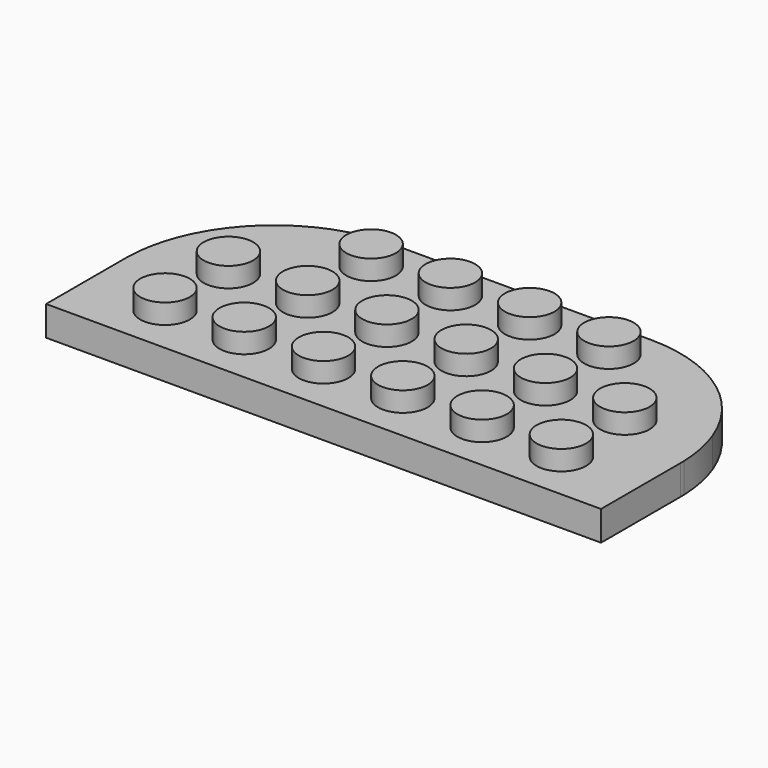
from build123d import *

# Parameters (mm, degrees)
F0_R     = 2.5
F1_DEPTH = 3
F2_DEPTH = 5
F3_R     = 3
F3_R_2   = 2.5
F4_DEPTH = 2


with BuildPart() as f1:
    # F0 (on Top) → F1 (new body)
    with BuildSketch(Plane.XY):
        with BuildLine():
            Line((-28, 0), (0, 0))
            Line((0, 0), (0, 25))
            Line((0, 25), (-13, 25))
            ThreePointArc((-13, 25), (-16.3893239512, 24.6120663547), (-19.6033368631, 23.4683310871))
            ThreePointArc((-19.6033368631, 23.4683310871), (-18.0971524178, 22.6214718865), (-17.5, 21))
            ThreePointArc((-17.5, 21), (-20.3463811518, 18.5241122607), (-22.4040160781, 21.6860806776))
            ThreePointArc((-22.4040160781, 21.6860806776), (-25.1440747457, 18.8046265435), (-27.0307720104, 15.3044732813))
            ThreePointArc((-27.0307720104, 15.3044732813), (-25.9175651302, 14.3832805258), (-25.5, 13))
            ThreePointArc((-25.5, 13), (-26.2292882388, 11.235182769), (-27.991663887, 10.5000138982))
            ThreePointArc((-27.991663887, 10.5000138982), (-27.997915827, 10.2500416911), (-28, 10))
            Line((-28, 10), (-28, 7.5))
            ThreePointArc((-28, 7.5), (-26.232233047, 6.767766953), (-25.5, 5))
            ThreePointArc((-25.5, 5), (-26.232233047, 3.232233047), (-28, 2.5))
            Line((-28, 2.5), (-28, 0))
        make_face()
        with Locations((-20, 5)):
            Circle(F0_R, mode=Mode.SUBTRACT)
        with Locations((-12, 5)):
            Circle(F0_R, mode=Mode.SUBTRACT)
        with Locations((-4, 5)):
            Circle(F0_R, mode=Mode.SUBTRACT)
        with Locations((-20, 13)):
            Circle(F0_R, mode=Mode.SUBTRACT)
        with Locations((-12, 13)):
            Circle(F0_R, mode=Mode.SUBTRACT)
        with Locations((-4, 13)):
            Circle(F0_R, mode=Mode.SUBTRACT)
        with Locations((-12, 21)):
            Circle(F0_R, mode=Mode.SUBTRACT)
        with Locations((-4, 21)):
            Circle(F0_R, mode=Mode.SUBTRACT)
        with BuildLine():
            ThreePointArc((-17.5, 21), (-18.0971524178, 22.6214718865), (-19.6033368631, 23.4683310871))
            ThreePointArc((-19.6033368631, 23.4683310871), (-21.0531323829, 22.654922316), (-22.4040160781, 21.6860806776))
            ThreePointArc((-22.4040160781, 21.6860806776), (-20.3463811518, 18.5241122607), (-17.5, 21))
        make_face()
        with BuildLine():
            Line((0, 25), (0, 0))
            Line((0, 0), (28, 0))
            Line((28, 0), (28, 2.5))
            ThreePointArc((28, 2.5), (25.5, 5), (28, 7.5))
            Line((28, 7.5), (28, 10))
            ThreePointArc((28, 10), (27.997915827, 10.2500416911), (27.991663887, 10.5000138982))
            ThreePointArc((27.991663887, 10.5000138982), (25.5485483108, 12.5097096622), (27.0307720104, 15.3044732813))
            ThreePointArc((27.0307720104, 15.3044732813), (25.1440747457, 18.8046265435), (22.4040160781, 21.6860806776))
            ThreePointArc((22.4040160781, 21.6860806776), (22.4758877393, 21.3463811518), (22.5, 21))
            ThreePointArc((22.5, 21), (18.3785281135, 19.0971524178), (19.6033368631, 23.4683310871))
            ThreePointArc((19.6033368631, 23.4683310871), (16.3893239512, 24.6120663547), (13, 25))
            Line((13, 25), (0, 25))
        make_face()
        with Locations((4, 5)):
            Circle(F0_R, mode=Mode.SUBTRACT)
        with Locations((12, 5)):
            Circle(F0_R, mode=Mode.SUBTRACT)
        with Locations((20, 5)):
            Circle(F0_R, mode=Mode.SUBTRACT)
        with Locations((4, 13)):
            Circle(F0_R, mode=Mode.SUBTRACT)
        with Locations((12, 13)):
            Circle(F0_R, mode=Mode.SUBTRACT)
        with Locations((20, 13)):
            Circle(F0_R, mode=Mode.SUBTRACT)
        with Locations((4, 21)):
            Circle(F0_R, mode=Mode.SUBTRACT)
        with Locations((12, 21)):
            Circle(F0_R, mode=Mode.SUBTRACT)
        with BuildLine():
            ThreePointArc((22.4040160781, 21.6860806776), (21.0531323829, 22.654922316), (19.6033368631, 23.4683310871))
            ThreePointArc((19.6033368631, 23.4683310871), (18.3785281135, 19.0971524178), (22.5, 21))
            ThreePointArc((22.5, 21), (22.4758877393, 21.3463811518), (22.4040160781, 21.6860806776))
        make_face()
        with BuildLine():
            ThreePointArc((-27.0307720104, 15.3044732813), (-27.7087101354, 12.9417420271), (-27.991663887, 10.5000138982))
            ThreePointArc((-27.991663887, 10.5000138982), (-26.2292882388, 11.235182769), (-25.5, 13))
            ThreePointArc((-25.5, 13), (-25.9175651302, 14.3832805258), (-27.0307720104, 15.3044732813))
        make_face()
        with BuildLine():
            Line((-28, 7.5), (-28, 2.5))
            ThreePointArc((-28, 2.5), (-26.232233047, 3.232233047), (-25.5, 5))
            ThreePointArc((-25.5, 5), (-26.232233047, 6.767766953), (-28, 7.5))
        make_face()
        with BuildLine():
            ThreePointArc((28, 7.5), (25.5, 5), (28, 2.5))
            Line((28, 2.5), (28, 7.5))
        make_face()
        with BuildLine():
            ThreePointArc((27.991663887, 10.5000138982), (27.7087101354, 12.9417420271), (27.0307720104, 15.3044732813))
            ThreePointArc((27.0307720104, 15.3044732813), (25.5485483108, 12.5097096622), (27.991663887, 10.5000138982))
        make_face()
    extrude(amount=F1_DEPTH)

    # F0 (on Top) → F2 (join)
    with BuildSketch(Plane.XY):
        with Locations((-20, 13)):
            Circle(F0_R)
        with Locations((-20, 5)):
            Circle(F0_R)
        with Locations((-12, 5)):
            Circle(F0_R)
        with Locations((-12, 13)):
            Circle(F0_R)
        with Locations((-12, 21)):
            Circle(F0_R)
        with Locations((-4, 21)):
            Circle(F0_R)
        with Locations((-4, 13)):
            Circle(F0_R)
        with Locations((-4, 5)):
            Circle(F0_R)
        with Locations((4, 13)):
            Circle(F0_R)
        with Locations((4, 21)):
            Circle(F0_R)
        with Locations((4, 5)):
            Circle(F0_R)
        with Locations((12, 5)):
            Circle(F0_R)
        with Locations((12, 13)):
            Circle(F0_R)
        with Locations((12, 21)):
            Circle(F0_R)
        with Locations((20, 13)):
            Circle(F0_R)
        with Locations((20, 5)):
            Circle(F0_R)
    extrude(amount=F2_DEPTH)

    # F3 (on Top) → F4 (cut)
    with BuildSketch(Plane.XY):
        with BuildLine():
            Line((13, 23.5), (0, 23.5))
            Line((0, 23.5), (-13, 23.5))
            ThreePointArc((-13, 23.5), (-15.5473326534, 23.2574920838), (-18.0031470352, 22.5386809412))
            ThreePointArc((-18.0031470352, 22.5386809412), (-20.2891608484, 21.3630160664), (-22.3108832056, 19.7753492997))
            ThreePointArc((-22.3108832056, 19.7753492997), (-25.4086043388, 15.3175688394), (-26.5, 10))
            Line((-26.5, 10), (-26.5, 1.5))
            Line((-26.5, 1.5), (0, 1.5))
            Line((0, 1.5), (26.5, 1.5))
            Line((26.5, 1.5), (26.5, 7.3416876048))
            ThreePointArc((26.5, 7.3416876048), (21.0000404053, 8.9844298396), (26.4826520886, 10.6841729742))
            ThreePointArc((26.4826520886, 10.6841729742), (25.26982822, 15.6303921225), (22.3108832056, 19.7753492997))
            ThreePointArc((22.3108832056, 19.7753492997), (20.2891608484, 21.3630160664), (18.0031470352, 22.5386809412))
            ThreePointArc((18.0031470352, 22.5386809412), (15.5473326534, 23.2574920838), (13, 23.5))
        make_face()
        with Locations((-16, 9)):
            Circle(F3_R, mode=Mode.SUBTRACT)
        with Locations((-8, 9)):
            Circle(F3_R, mode=Mode.SUBTRACT)
        with Locations((0, 9)):
            Circle(F3_R, mode=Mode.SUBTRACT)
        with Locations((8, 9)):
            Circle(F3_R, mode=Mode.SUBTRACT)
        with Locations((16, 9)):
            Circle(F3_R, mode=Mode.SUBTRACT)
        with Locations((-16, 17)):
            Circle(F3_R, mode=Mode.SUBTRACT)
        with Locations((-8, 17)):
            Circle(F3_R, mode=Mode.SUBTRACT)
        with Locations((0, 17)):
            Circle(F3_R, mode=Mode.SUBTRACT)
        with Locations((8, 17)):
            Circle(F3_R, mode=Mode.SUBTRACT)
        with Locations((16, 17)):
            Circle(F3_R, mode=Mode.SUBTRACT)
        with BuildLine():
            ThreePointArc((26.5, 10), (26.4956623253, 10.342196438), (26.4826520886, 10.6841729742))
            ThreePointArc((26.4826520886, 10.6841729742), (21.0000404053, 8.9844298396), (26.5, 7.3416876048))
            Line((26.5, 7.3416876048), (26.5, 9))
            Line((26.5, 9), (26.5, 10))
        make_face()
        with Locations((24, 9)):
            Circle(F3_R_2, mode=Mode.SUBTRACT)
        with Locations((16, 9)):
            Circle(F3_R_2)
        with Locations((8, 9)):
            Circle(F3_R_2)
        with Locations((8, 17)):
            Circle(F3_R_2)
        with Locations((16, 17)):
            Circle(F3_R_2)
        with Locations((0, 9)):
            Circle(F3_R_2)
        with Locations((-8, 9)):
            Circle(F3_R_2)
        with Locations((-16, 9)):
            Circle(F3_R_2)
        with Locations((-16, 17)):
            Circle(F3_R_2)
        with Locations((-8, 17)):
            Circle(F3_R_2)
        with Locations((0, 17)):
            Circle(F3_R_2)
        with Locations((24, 9)):
            Circle(F3_R_2)
    extrude(amount=F4_DEPTH, mode=Mode.SUBTRACT)


solid = f1.part
